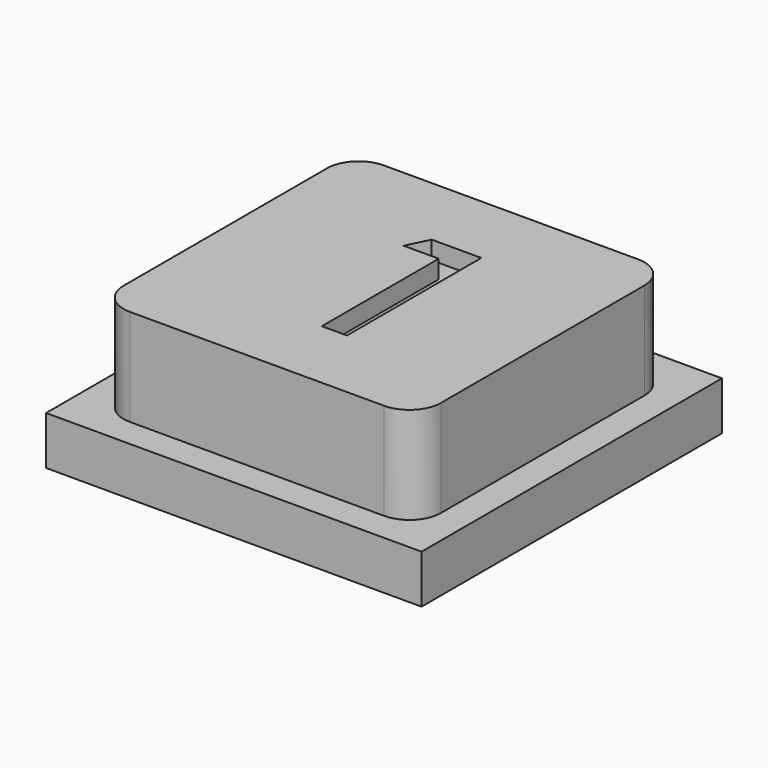
from build123d import *

# Parameters (mm, degrees)
F0_W     = 15.5
F0_H     = 15.5
F1_DEPTH = 2
F2_DEPTH = 6
F3_DEPTH = 5.25


with BuildPart() as f1:
    # F0 (on Top) → F1 (new body)
    with BuildSketch(Plane.XY):
        Rectangle(F0_W, F0_H)
        with BuildLine():
            Line((-6.549937, -5.249806), (-6.549937, 5.250194))
            ThreePointArc((-6.549937, 5.250194), (-6.169176, 6.169433), (-5.249937, 6.550194))
            Line((-5.249937, 6.550194), (5.250063, 6.550194))
            ThreePointArc((5.250063, 6.550194), (6.169302, 6.169433), (6.550063, 5.250194))
            Line((6.550063, 5.250194), (6.550063, -5.249806))
            ThreePointArc((6.550063, -5.249806), (6.169302, -6.169045), (5.250063, -6.549806))
            Line((5.250063, -6.549806), (-5.249937, -6.549806))
            ThreePointArc((-5.249937, -6.549806), (-6.169176, -6.169045), (-6.549937, -5.249806))
        make_face(mode=Mode.SUBTRACT)
    extrude(amount=F1_DEPTH)

    # F0 (on Top) → F2 (join)
    with BuildSketch(Plane.XY):
        with BuildLine():
            ThreePointArc((-5.249937, 6.550194), (-6.169176, 6.169433), (-6.549937, 5.250194))
            Line((-6.549937, 5.250194), (-6.549937, -5.249806))
            ThreePointArc((-6.549937, -5.249806), (-6.169176, -6.169045), (-5.249937, -6.549806))
            Line((-5.249937, -6.549806), (5.250063, -6.549806))
            ThreePointArc((5.250063, -6.549806), (6.169302, -6.169045), (6.550063, -5.249806))
            Line((6.550063, -5.249806), (6.550063, 5.250194))
            ThreePointArc((6.550063, 5.250194), (6.169302, 6.169433), (5.250063, 6.550194))
            Line((5.250063, 6.550194), (-5.249937, 6.550194))
        make_face()
        Polygon((1.24317, -3.46653), (0.205601, -3.46653), (0.205601, 2.567623), (-1.243169, 2.567623), (-0.803279, 3.46653), (1.24317, 3.46653), align=None, mode=Mode.SUBTRACT)
    extrude(amount=F2_DEPTH)

    # F0 (on Top) → F3 (join)
    with BuildSketch(Plane.XY):
        Polygon((0.205601, 2.567623), (0.205601, -3.46653), (1.24317, -3.46653), (1.24317, 3.46653), (-0.803279, 3.46653), (-1.243169, 2.567623), align=None)
    extrude(amount=F3_DEPTH)


solid = f1.part
